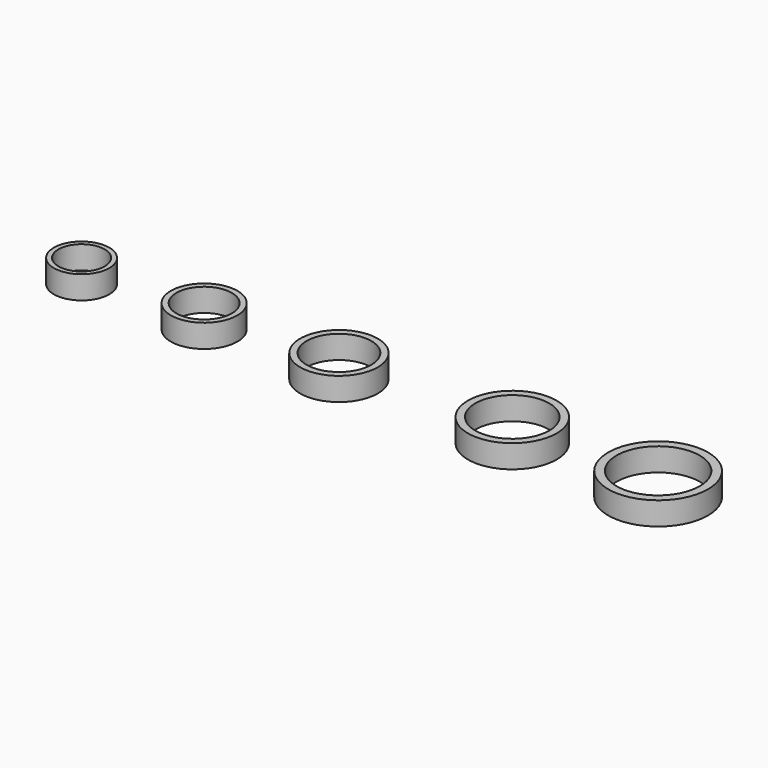
from build123d import *

# Parameters (mm, degrees)
F0_R     = 7.62
F0_R_2   = 6.35
F0_R_3   = 9.144
F0_R_4   = 10.668
F0_R_5   = 8.89
F0_R_6   = 12.192
F0_R_7   = 10.16
F0_R_8   = 13.716
F0_R_9   = 11.43
F1_DEPTH = 6.35


with BuildPart() as f1:
    # F0 (on Top) → F1 (new body)
    with BuildSketch(Plane.XY):
        with Locations((-103.542268, 0)):
            Circle(F0_R)
        with Locations((-103.542268, 0)):
            Circle(F0_R_2, mode=Mode.SUBTRACT)
        with Locations((-69.86542, 0)):
            Circle(F0_R_3)
        with Locations((-69.86542, 0)):
            Circle(F0_R, mode=Mode.SUBTRACT)
        with Locations((-32.814071, 0)):
            Circle(F0_R_4)
        with Locations((-32.814071, 0)):
            Circle(F0_R_5, mode=Mode.SUBTRACT)
        with Locations((14.823379, 0)):
            Circle(F0_R_6)
        with Locations((14.823379, 0)):
            Circle(F0_R_7, mode=Mode.SUBTRACT)
        with Locations((54.899327, 0)):
            Circle(F0_R_8)
        with Locations((54.899327, 0)):
            Circle(F0_R_9, mode=Mode.SUBTRACT)
    extrude(amount=F1_DEPTH)


solid = f1.part
